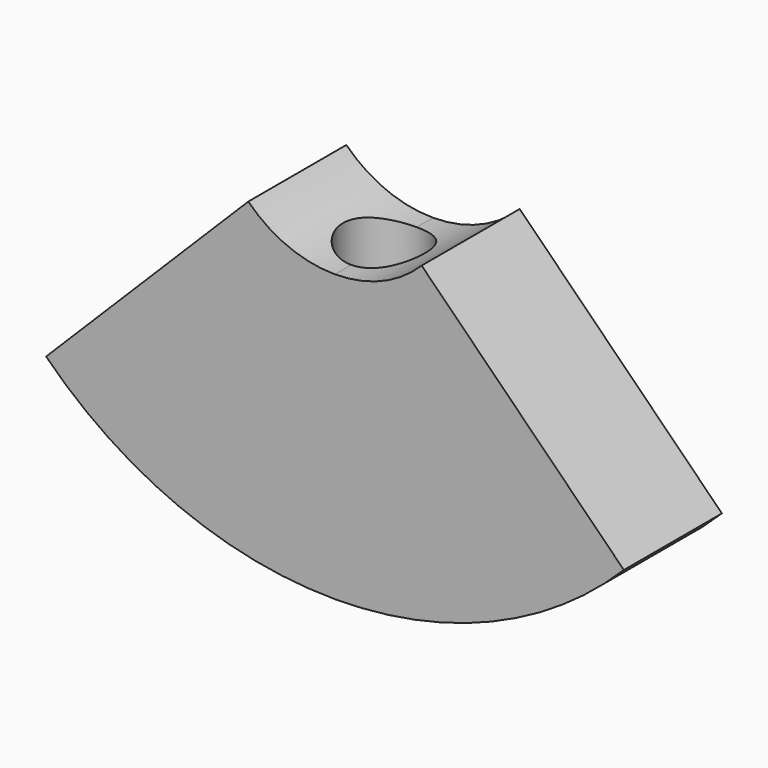
from build123d import *

# Parameters (mm, degrees)
F1_DEPTH = 15
F2_R     = 7.5
F3_DEPTH = 105.450168252
F4_R     = 10
F5_DEPTH = 70


with BuildPart() as f1:
    # F0 (on Front) → F1 (new body, symmetric)
    with BuildSketch(Plane.XZ):
        with BuildLine():
            Line((-21.2132034356, -21.2132034356), (-70.7106781187, -70.7106781187))
            ThreePointArc((-70.7106781187, -70.7106781187), (-38.2683432365, -92.3879532511), (0, -100))
            Line((0, -100), (0, -30))
            ThreePointArc((0, -30), (-11.480502971, -27.7163859753), (-21.2132034356, -21.2132034356))
        make_face()
        with BuildLine():
            Line((0, -30), (0, -100))
            ThreePointArc((0, -100), (38.2683432365, -92.3879532511), (70.7106781187, -70.7106781187))
            Line((70.7106781187, -70.7106781187), (21.2132034356, -21.2132034356))
            ThreePointArc((21.2132034356, -21.2132034356), (11.480502971, -27.7163859753), (0, -30))
        make_face()
    extrude(amount=F1_DEPTH, both=True)

    # F2 (on Top) → F3 (cut)
    with BuildSketch(Plane.XY):
        Circle(F2_R)
    extrude(amount=-F3_DEPTH, mode=Mode.SUBTRACT)

    # F4 (on Top) → F5 (cut)
    with BuildSketch(Plane.XY):
        Circle(F4_R)
    extrude(amount=-F5_DEPTH, mode=Mode.SUBTRACT)


solid = f1.part
